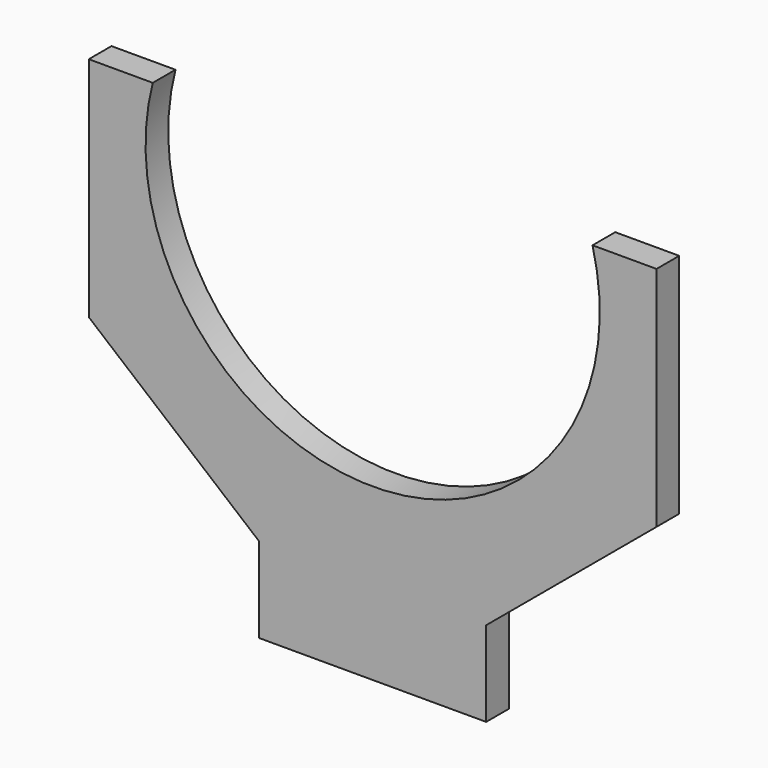
from build123d import *

# Parameters (mm, degrees)
F1_DEPTH = 5


with BuildPart() as f1:
    # F0 (on Front) → F1 (new body)
    with BuildSketch(Plane.XZ):
        with BuildLine():
            ThreePointArc((38.729833, 80), (0, 30), (-38.729833, 80))
            Line((-38.729833, 80), (-50, 80))
            Line((-50, 80), (-50, 40))
            Line((-50, 40), (-20, 15))
            Line((-20, 15), (-20, 0))
            Line((-20, 0), (0, 0))
            Line((0, 0), (20, 0))
            Line((20, 0), (20, 15))
            Line((20, 15), (50, 40))
            Line((50, 40), (50, 80))
            Line((50, 80), (38.729833, 80))
        make_face()
    extrude(amount=F1_DEPTH)


solid = f1.part
